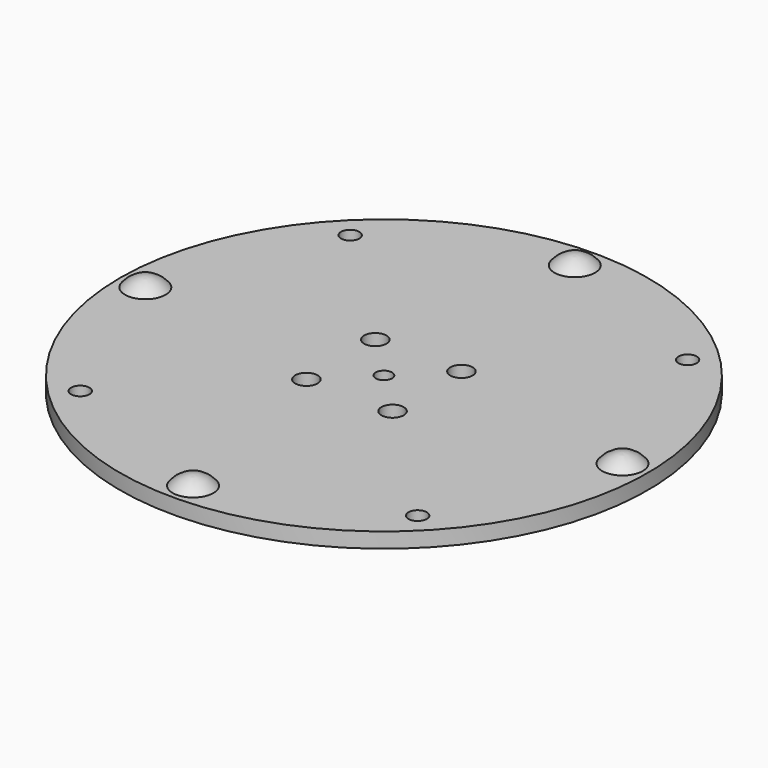
from build123d import *

# Parameters (mm, degrees)
SKETCH004_R             = 52
SKETCH004_R_2           = 1.6
SKETCH004_R_3           = 2.2
PAD003_DEPTH            = 3
SKETCH006_R             = 1.8
POCKET001_DEPTH         = 0.001
POCKET001_DEPTH_BACK    = 3.001
BODY002_PLACEMENT_ANGLE = 180


with BuildPart() as part:
    # Sketch004 → Pad003 (new body)
    with BuildSketch(Plane.XY):
        Circle(SKETCH004_R)
        Circle(SKETCH004_R_2, mode=Mode.SUBTRACT)
        with Locations((8.485281, 8.485281)):
            Circle(SKETCH004_R_3, mode=Mode.SUBTRACT)
        with Locations((-8.485281, 8.485281)):
            Circle(SKETCH004_R_3, mode=Mode.SUBTRACT)
        with Locations((-8.485281, -8.485281)):
            Circle(SKETCH004_R_3, mode=Mode.SUBTRACT)
        with Locations((8.485281, -8.485281)):
            Circle(SKETCH004_R_3, mode=Mode.SUBTRACT)
    extrude(amount=PAD003_DEPTH)

    # Sketch006 → Pocket001 (cut, two sides)
    with BuildSketch(Plane.XY) as pocket001_sk:
        with Locations((-33.234019, 33.234019)):
            Circle(SKETCH006_R)
        with Locations((-33.234019, -33.234019)):
            Circle(SKETCH006_R)
        with Locations((33.234019, -33.234019)):
            Circle(SKETCH006_R)
        with Locations((33.234019, 33.234019)):
            Circle(SKETCH006_R)
    extrude(amount=-POCKET001_DEPTH, mode=Mode.SUBTRACT)
    extrude(pocket001_sk.sketch, amount=POCKET001_DEPTH_BACK, mode=Mode.SUBTRACT)

    # Sphere → Sphere (revolve)
    with BuildSketch(Plane.XZ.offset(-47)):
        with BuildLine():
            ThreePointArc((5, 0), (3.535534, 3.535534), (0, 5))
            Line((0, 5), (0, 0))
            Line((0, 0), (5, 0))
        make_face()
    revolve(axis=Axis((0, 47, 0), (0, 0, 1)))

    # Sphere001 → Sphere001 (revolve)
    with BuildSketch(Plane.XZ.offset(47)):
        with BuildLine():
            ThreePointArc((5, 0), (3.535534, 3.535534), (0, 5))
            Line((0, 5), (0, 0))
            Line((0, 0), (5, 0))
        make_face()
    revolve(axis=Axis((0, -47, 0), (0, 0, 1)))

    # Sphere002 → Sphere002 (revolve)
    with BuildSketch(Plane(origin=(47, 0, 0), x_dir=(1, 0, 0), z_dir=(0, -1, 0))):
        with BuildLine():
            ThreePointArc((5, 0), (3.535534, 3.535534), (0, 5))
            Line((0, 5), (0, 0))
            Line((0, 0), (5, 0))
        make_face()
    revolve(axis=Axis((47, 0, 0), (0, 0, 1)))

    # Sphere003 → Sphere003 (revolve)
    with BuildSketch(Plane(origin=(-47, 0, 0), x_dir=(1, 0, 0), z_dir=(0, -1, 0))):
        with BuildLine():
            ThreePointArc((5, 0), (3.535534, 3.535534), (0, 5))
            Line((0, 5), (0, 0))
            Line((0, 0), (5, 0))
        make_face()
    revolve(axis=Axis((-47, 0, 0), (0, 0, 1)))


with BuildPart() as part_1:
    # Body002 placement: moved
    add(part.part.moved(Location((0, 0, 51))).rotate(Axis((0, 0, 51), (0, 0, -1)), BODY002_PLACEMENT_ANGLE))


solid = part_1.part
